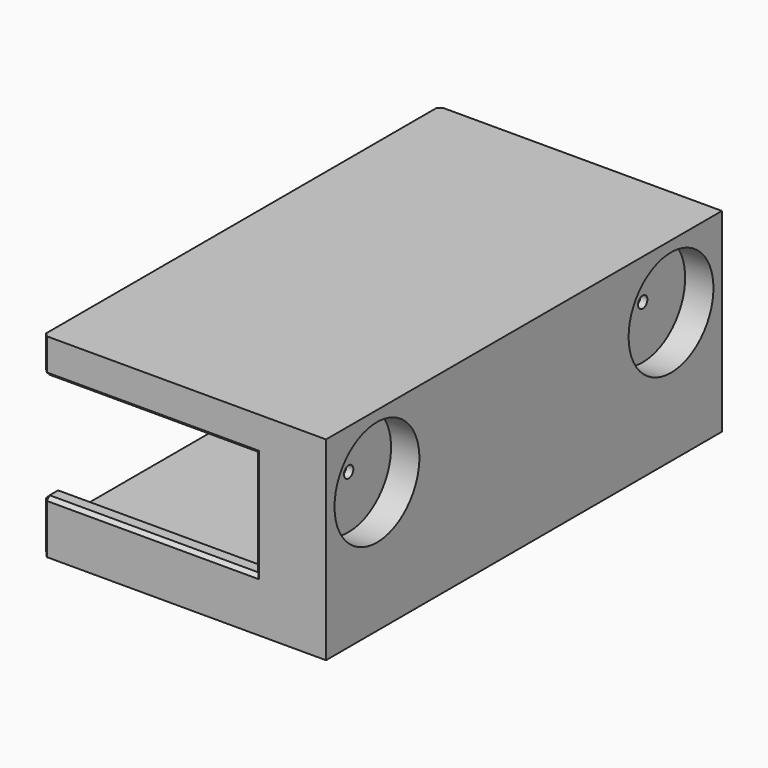
from build123d import *

# Parameters (mm, degrees)
F1_DEPTH  = 130
F2_DEPTH  = 5
F4_DEPTH  = 5
F5_SIZE   = 1
F7_DEPTH  = 8
F8_DEPTH  = 20
F10_DEPTH = 10


with BuildPart() as f1:
    # F0 (on Front) → F1 (new body)
    with BuildSketch(Plane.XZ):
        Polygon((0, -55), (0, 0), (-80, 0), (-80, -5), (-10, -5), (-10, -47.5), (-80, -47.5), (-80, -55), align=None)
    extrude(amount=F1_DEPTH)

    # F0 (on Front) + F1_face (on face) → F2 (join)
    with BuildSketch(Plane.XZ):
        Polygon((0, -55), (0, 0), (-80, 0), (-80, -5), (-10, -5), (-10, -47.5), (-80, -47.5), (-80, -55), align=None)
        Polygon((-10, -5), (-80, -5), (-80, -10), (-20, -10), (-20, -40), (-80, -40), (-80, -47.5), (-10, -47.5), align=None)
    with BuildSketch(Plane(origin=(-29.5614035088, 0, -30.1096491228), x_dir=(1, 0, 0), z_dir=(0, 1, 0))):
        Polygon((29.5614035088, -30.1096491228), (29.5614035088, 24.8903508772), (-50.4385964912, 24.8903508772), (-50.4385964912, 17.3903508772), (19.5614035088, 17.3903508772), (19.5614035088, -25.1096491228), (-50.4385964912, -25.1096491228), (-50.4385964912, -30.1096491228), align=None)
    extrude(amount=-F2_DEPTH, dir=(0, -1, 0))

    # F3 (on face) → F4 (join)
    with BuildSketch(Plane.XZ.offset(130)):
        Polygon((-10, -5), (-80, -5), (-80, -10), (-20, -10), (-20, -40), (-80, -40), (-80, -47.5), (-10, -47.5), align=None)
        Polygon((-80, 0), (-80, -5), (-10, -5), (-10, -47.5), (-80, -47.5), (-80, -55), (0, -55), (0, 0), align=None)
    extrude(amount=F4_DEPTH)

    # F5
    f5_edges = [f1.edges().sort_by_distance(p)[0] for p in [
        (-50, -135, -40),
        (-20, -135, -25),
        (-50, -135, -10),
        (-50, -130, -40),
        (-20, -130, -25),
        (-50, -130, -10),
        (-50, 0, -10),
        (-50, 5, -10),
        (-20, 0, -25),
        (-20, 5, -25),
        (-50, 5, -40),
        (-80, 2.5, -40),
        (-50, 0, -40),
        (-80, 2.5, -10),
        (-80, -130, -43.75),
        (-10, -65, -47.5),
        (-80, -65, -5),
        (-80, 0, -7.5),
        (-80, -65, -47.5),
        (-80, 0, -43.75),
        (-80, 5, -47.5),
        (-80, -132.5, -40),
        (-80, -135, -47.5),
        (-80, -65, -55),
        (-80, -132.5, -10),
        (-80, 5, -5),
        (-80, -135, -5),
    ]]
    chamfer(f5_edges, length=F5_SIZE)

    # F6 (on face) → F7 (cut)
    with BuildSketch(Plane.YZ):
        with BuildLine():
            ThreePointArc((-118.65, -18), (-117, -16.35), (-115.35, -18))
            Line((-115.35, -18), (-102, -18))
            ThreePointArc((-102, -18), (-117, -3), (-132, -18))
            Line((-132, -18), (-118.65, -18))
        make_face()
        with BuildLine():
            Line((-102, -18), (-115.35, -18))
            ThreePointArc((-115.35, -18), (-117, -19.65), (-118.65, -18))
            Line((-118.65, -18), (-132, -18))
            ThreePointArc((-132, -18), (-117, -33), (-102, -18))
        make_face()
        with BuildLine():
            ThreePointArc((2, -18), (-13, -3), (-28, -18))
            Line((-28, -18), (-14.65, -18))
            ThreePointArc((-14.65, -18), (-13, -16.35), (-11.35, -18))
            Line((-11.35, -18), (2, -18))
        make_face()
        with BuildLine():
            Line((-14.65, -18), (-28, -18))
            ThreePointArc((-28, -18), (-13, -33), (2, -18))
            Line((2, -18), (-11.35, -18))
            ThreePointArc((-11.35, -18), (-13, -19.65), (-14.65, -18))
        make_face()
    extrude(amount=-F7_DEPTH, mode=Mode.SUBTRACT)

    # F8 (cut): faces of the model
    f8_faces = [f1.faces().sort_by_distance(p)[0] for p in [
        (0, -13, -18),
        (0, -117, -18),
    ]]
    extrude(f8_faces, amount=-F8_DEPTH, mode=Mode.SUBTRACT)

    # F9 (on face) → F10 (cut)
    with BuildSketch(Plane(origin=(0, 0, -55), x_dir=(1, 0, 0), z_dir=(0, 0, -1))):
        with BuildLine():
            ThreePointArc((-73.5, 65), (-71, 62.5), (-68.5, 65))
            ThreePointArc((-68.5, 65), (-71, 67.5), (-73.5, 65))
        make_face()
    extrude(amount=-F10_DEPTH, mode=Mode.SUBTRACT)


solid = f1.part
